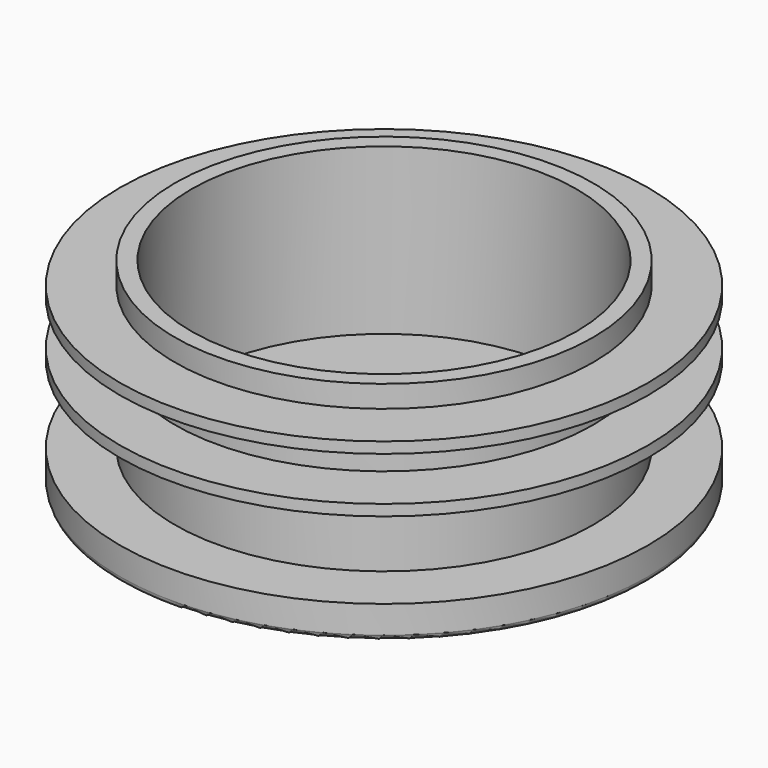
from build123d import *

# Parameters (mm, degrees)
SKETCH_R      = 24
PAD_DEPTH     = 3
SKETCH001_R   = 19
SKETCH001_R_2 = 17.5
PAD001_DEPTH  = 15
SKETCH002_R   = 24
SKETCH002_R_2 = 17.5
PAD002_DEPTH  = 1
SKETCH003_R   = 24
SKETCH003_R_2 = 17.5
PAD003_DEPTH  = 1
FILLET_R      = 0.5


with BuildPart() as part:
    # Sketch → Pad (new body)
    with BuildSketch(Plane.XY):
        Circle(SKETCH_R)
    extrude(amount=PAD_DEPTH)

    # Sketch001 (on Face3 of Pad) → Pad001 (join)
    with BuildSketch(Plane.XY.offset(3)):
        Circle(SKETCH001_R)
        Circle(SKETCH001_R_2, mode=Mode.SUBTRACT)
    extrude(amount=PAD001_DEPTH)

    # Sketch002 (on DatumPlane) → Pad002 (join)
    with BuildSketch(Plane.XY.offset(10)):
        Circle(SKETCH002_R)
        Circle(SKETCH002_R_2, mode=Mode.SUBTRACT)
    extrude(amount=PAD002_DEPTH)

    # Sketch003 (on DatumPlane) → Pad003 (join)
    with BuildSketch(Plane.XY.offset(15)):
        Circle(SKETCH003_R)
        Circle(SKETCH003_R_2, mode=Mode.SUBTRACT)
    extrude(amount=PAD003_DEPTH)

    # Fillet
    fillet_edges = [part.edges().sort_by_distance(p)[0] for p in [
        (-24, 0, 0),
    ]]
    fillet(fillet_edges, radius=FILLET_R)


solid = part.part
